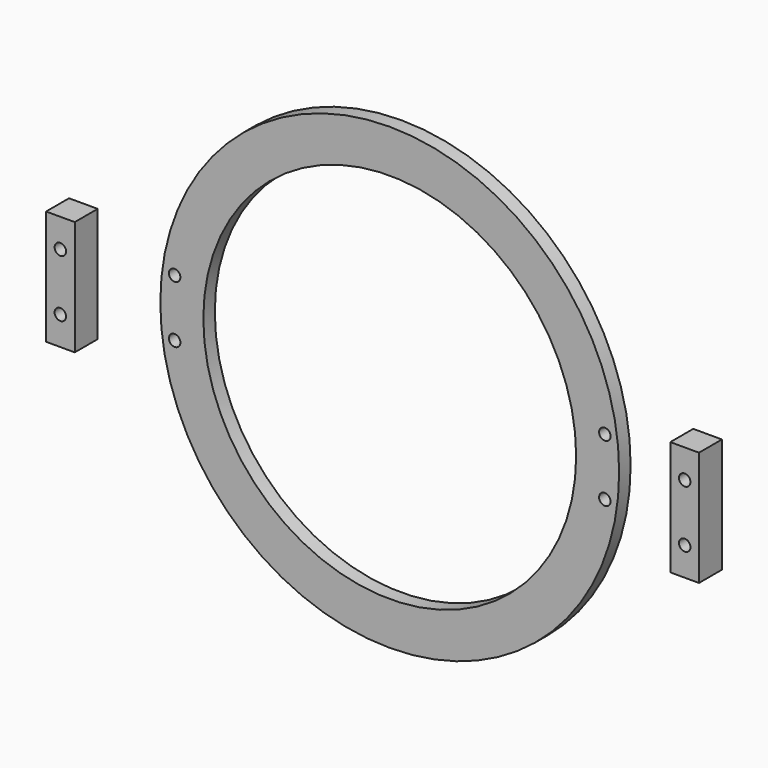
from build123d import *

# Parameters (mm, degrees)
F0_R     = 80
F0_R_2   = 2
F0_R_3   = 65
F1_DEPTH = 2.5
F2_W     = 10
F2_H     = 40
F2_R     = 2
F3_DEPTH = 10


with BuildPart() as f1:
    # F0 (on Front) → F1 (new body, symmetric)
    with BuildSketch(Plane.XZ):
        Circle(F0_R)
        with Locations((-75, -10)):
            Circle(F0_R_2, mode=Mode.SUBTRACT)
        with Locations((75, -10)):
            Circle(F0_R_2, mode=Mode.SUBTRACT)
        with Locations((-75, 10)):
            Circle(F0_R_2, mode=Mode.SUBTRACT)
        Circle(F0_R_3, mode=Mode.SUBTRACT)
        with Locations((75, 10)):
            Circle(F0_R_2, mode=Mode.SUBTRACT)
    extrude(amount=F1_DEPTH, both=True)


with BuildPart() as f3:
    # F2 (on Front) → F3 (new body)
    with BuildSketch(Plane.XZ):
        with Locations((-108.8307350874, 0)):
            Rectangle(F2_W, F2_H)
        with Locations((-108.8558137417, -10)):
            Circle(F2_R, mode=Mode.SUBTRACT)
        with Locations((-108.8558137417, 10)):
            Circle(F2_R, mode=Mode.SUBTRACT)
    extrude(amount=F3_DEPTH)


with BuildPart() as f3b:
    # F2 (on Front) → F3, piece 2 (new body)
    with BuildSketch(Plane.XZ):
        with Locations((108.8307350874, 0)):
            Rectangle(F2_W, F2_H)
        with Locations((108.8558137417, -10)):
            Circle(F2_R, mode=Mode.SUBTRACT)
        with Locations((108.8558137417, 10)):
            Circle(F2_R, mode=Mode.SUBTRACT)
    extrude(amount=F3_DEPTH)


solid = Compound([f1.part, f3.part, f3b.part])
